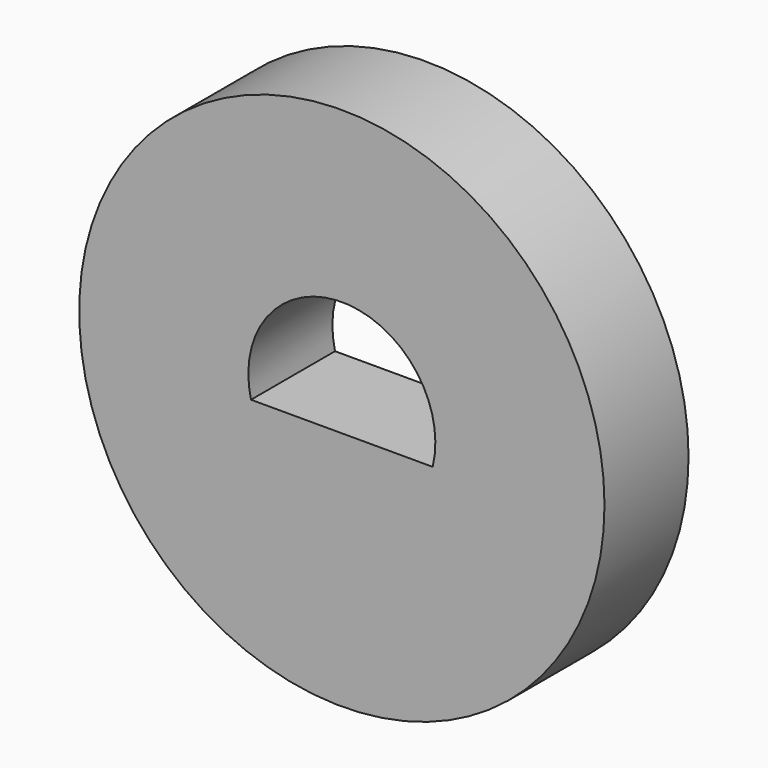
from build123d import *

# Parameters (mm, degrees)
F0_R     = 7.5
F1_DEPTH = 3


with BuildPart() as f1:
    # F0 (on Front) → F1 (new body)
    with BuildSketch(Plane.XZ):
        Circle(F0_R)
        with BuildLine():
            Line((2.59461, -0.63), (0, -0.63))
            Line((0, -0.63), (-2.59461, -0.63))
            ThreePointArc((-2.59461, -0.63), (0, 2.67), (2.59461, -0.63))
        make_face(mode=Mode.SUBTRACT)
    extrude(amount=F1_DEPTH)


solid = f1.part
